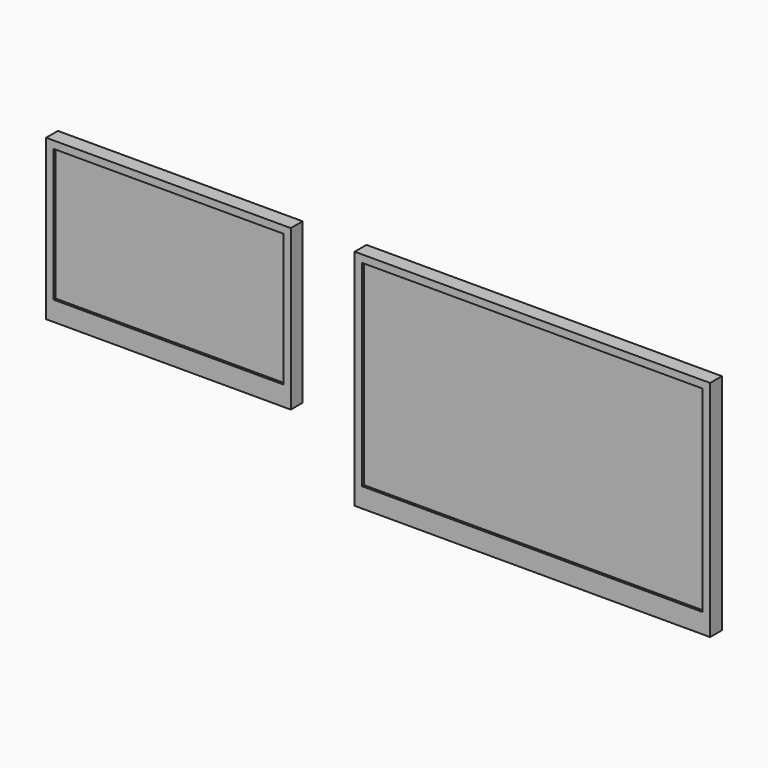
from build123d import *

# Parameters (mm, degrees)
F0_W     = 632.020222
F0_H     = 412.75
F0_W_2   = 593.920222
F0_H_2   = 342.9
F0_W_3   = 917.981811
F0_H_3   = 577.85
F0_W_4   = 879.881811
F0_H_4   = 508
F1_DEPTH = 38.1
F2_DEPTH = 38.1
F3_DEPTH = 6.35


with BuildPart() as f1:
    # F0 (on Front) → F1 (new body)
    with BuildSketch(Plane.XZ):
        with Locations((296.960111, -187.325)):
            Rectangle(F0_W, F0_H)
        with Locations((296.960111, -171.45)):
            Rectangle(F0_W_2, F0_H_2, mode=Mode.SUBTRACT)
        with Locations((1236.967296, -269.875)):
            Rectangle(F0_W_3, F0_H_3)
        with Locations((1236.967296, -254)):
            Rectangle(F0_W_4, F0_H_4, mode=Mode.SUBTRACT)
    extrude(amount=-F1_DEPTH)

    # F0 (on Front) → F2 (join)
    with BuildSketch(Plane.XZ):
        with Locations((296.960111, -171.45)):
            Rectangle(F0_W_2, F0_H_2)
        with Locations((1236.967296, -254)):
            Rectangle(F0_W_4, F0_H_4)
    extrude(amount=-F2_DEPTH)

    # F0 (on Front) → F3 (cut)
    with BuildSketch(Plane.XZ):
        with Locations((296.960111, -171.45)):
            Rectangle(F0_W_2, F0_H_2)
        with Locations((1236.967296, -254)):
            Rectangle(F0_W_4, F0_H_4)
    extrude(amount=-F3_DEPTH, mode=Mode.SUBTRACT)


solid = f1.part
